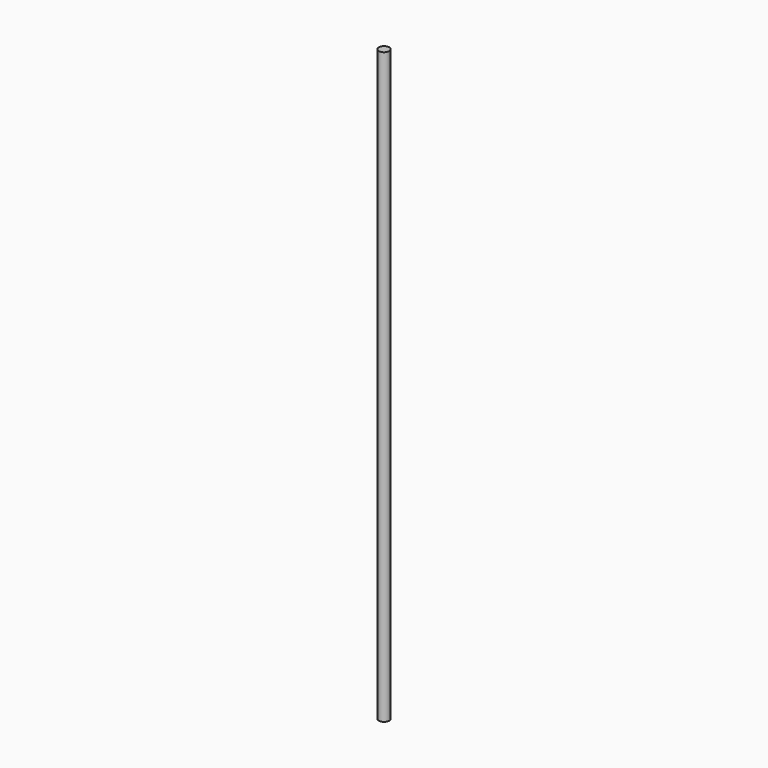
from build123d import *

# Parameters (mm, degrees)
SKETCH_R  = 4
PAD_DEPTH = 450


with BuildPart() as part:
    # Sketch → Pad (new body)
    with BuildSketch(Plane.XY):
        Circle(SKETCH_R)
    extrude(amount=PAD_DEPTH)


solid = part.part
